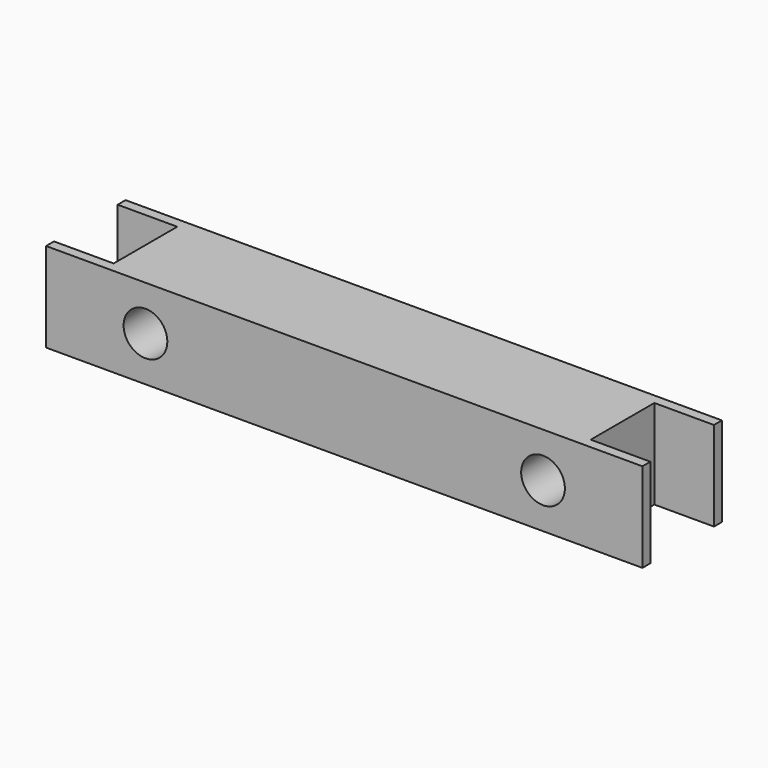
from build123d import *

# Parameters (mm, degrees)
F0_W     = 300
F0_H     = 45
F0_R     = 11
F1_DEPTH = 50
F2_W     = 40
F2_H     = 2.5
F2_H_2   = 45
F3_DEPTH = 30
F4_W     = 40
F4_H     = 45
F5_DEPTH = 30


with BuildPart() as f1:
    # F0 (on Front) → F1 (new body)
    with BuildSketch(Plane.XZ):
        Rectangle(F0_W, F0_H)
        with Locations((-100, 0)):
            Circle(F0_R, mode=Mode.SUBTRACT)
        with Locations((100, 0)):
            Circle(F0_R, mode=Mode.SUBTRACT)
    extrude(amount=F1_DEPTH)

    # F2 (on face) → F3 (cut)
    with BuildSketch(Plane(origin=(-150, 0, 0), x_dir=(0, -1, 0), z_dir=(-1, 0, 0))):
        with Locations((25, -23.75)):
            Rectangle(F2_W, F2_H)
        with Locations((25, 23.75)):
            Rectangle(F2_W, F2_H)
        with Locations((25, 0)):
            Rectangle(F2_W, F2_H_2)
    extrude(amount=-F3_DEPTH, mode=Mode.SUBTRACT)

    # F4 (on face) → F5 (cut)
    with BuildSketch(Plane.YZ.offset(150)):
        with Locations((-25, 0)):
            Rectangle(F4_W, F4_H)
    extrude(amount=-F5_DEPTH, mode=Mode.SUBTRACT)


solid = f1.part
